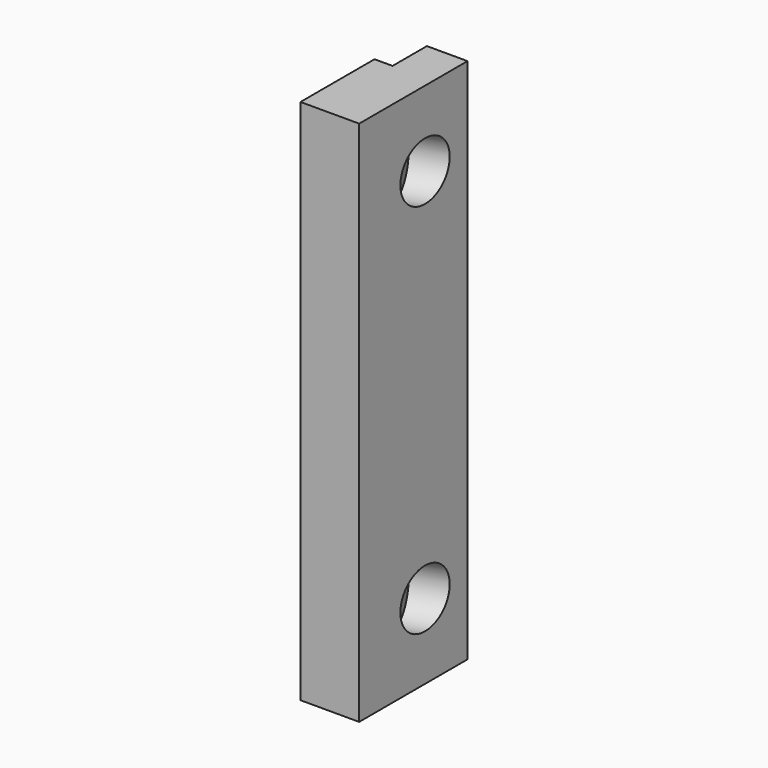
from build123d import *

# Parameters (mm, degrees)
F1_DEPTH = 35
F3_R     = 0.895736
F3_R_2   = 0.920741
F4_DEPTH = 6.743983
F5_R     = 1.925
F6_DEPTH = 2.75


with BuildPart() as f1:
    # F0 (on Top) → F1 (new body)
    with BuildSketch(Plane.XY):
        Polygon((0, 2.85), (0, 0), (-1.2, 0), (-1.2, -6.15), (2.7, -6.15), (2.7, 2.85), align=None)
    extrude(amount=F1_DEPTH)

    # F3 (on face) → F4 (cut, through all)
    with BuildSketch(Plane(origin=(3.300132, 1.20115, 0), x_dir=(-0.34202, 0.939693, 0), z_dir=(0.939693, 0.34202, 0))):
        with Locations((-1.561705, 30)):
            Circle(F3_R)
        with Locations((-1.561705, 5)):
            Circle(F3_R_2)
    extrude(amount=-F4_DEPTH, mode=Mode.SUBTRACT)

    # F5 (on face) → F6 (cut)
    with BuildSketch(Plane(origin=(3.300132, 1.20115, 0), x_dir=(-0.34202, 0.939693, 0), z_dir=(0.939693, 0.34202, 0))):
        with Locations((-1.561705, 30)):
            Circle(F5_R)
        with Locations((-1.561705, 5)):
            Circle(F5_R)
    extrude(amount=-F6_DEPTH, mode=Mode.SUBTRACT)


solid = f1.part
